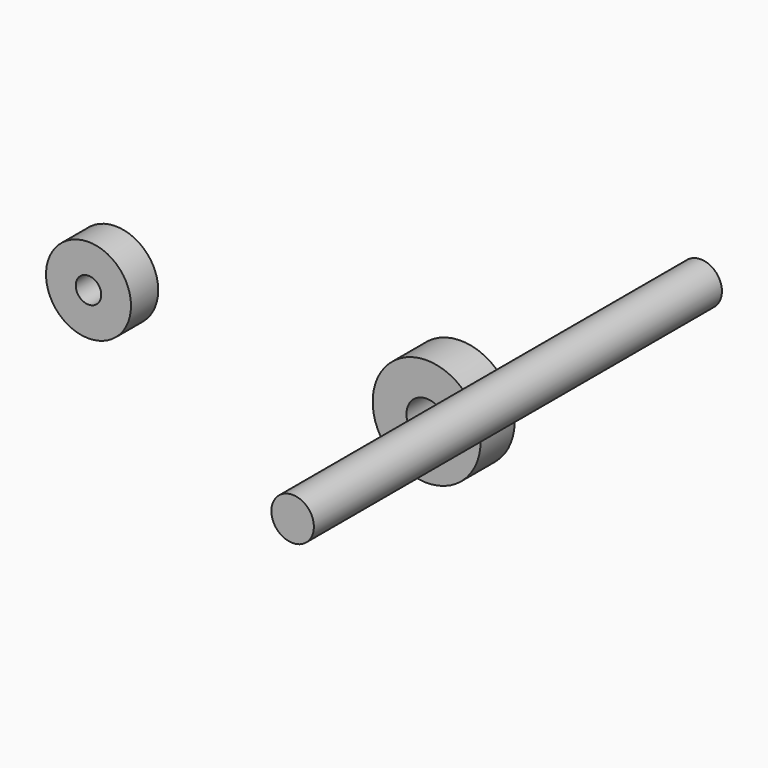
from build123d import *

# Parameters (mm, degrees)
F0_R     = 6.35
F0_R_2   = 2.375
F1_DEPTH = 5
F2_R     = 2.5
F3_DEPTH = 60
F4_R     = 5
F4_R_2   = 1.5
F5_DEPTH = 4


with BuildPart() as f1:
    # F0 (on Front) → F1 (new body)
    with BuildSketch(Plane.XZ):
        Circle(F0_R)
        Circle(F0_R_2, mode=Mode.SUBTRACT)
    extrude(amount=F1_DEPTH)


with BuildPart() as f3:
    # F2 (on Front) → F3 (new body)
    with BuildSketch(Plane.XZ):
        with Locations((28.235165, 21.453524)):
            Circle(F2_R)
    extrude(amount=F3_DEPTH)


with BuildPart() as f5:
    # F4 (on Front) → F5 (new body)
    with BuildSketch(Plane.XZ):
        with Locations((-40.575489, 0)):
            Circle(F4_R)
        with Locations((-40.575489, 0)):
            Circle(F4_R_2, mode=Mode.SUBTRACT)
    extrude(amount=F5_DEPTH)


solid = Compound([f1.part, f3.part, f5.part])
